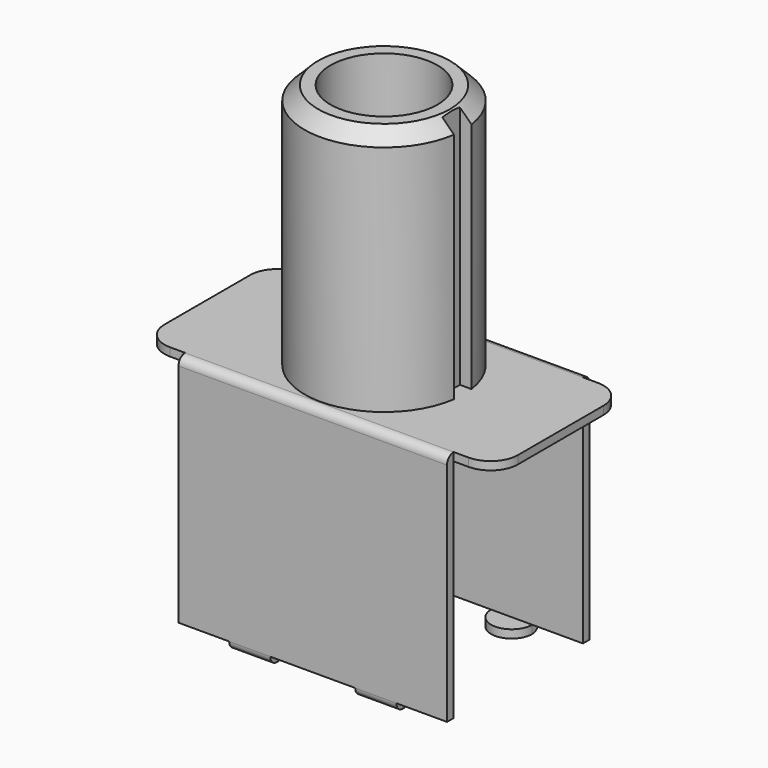
from build123d import *

# Parameters (mm, degrees)
SKETCH005_W     = 12.9
SKETCH005_H     = 5.9
PAD003_DEPTH    = 0.3
FILLET003_R     = 1
SKETCH006_W     = 9.8
SKETCH006_H     = 0.3
PAD004_DEPTH    = 8.55
PAD005_DEPTH    = 0.3
FILLET004_R     = 0.3
SKETCH008_R     = 2.9
PAD006_DEPTH    = 9
SKETCH009_R     = 1.95
POCKET002_DEPTH = 5
CHAMFER_SIZE    = 0.5
SKETCH010_W     = 0.5
SKETCH010_H     = 0.8
POCKET003_DEPTH = 9


with BuildPart() as part:
    # Sketch005 → Pad003 (new body)
    with BuildSketch(Plane.XY):
        Rectangle(SKETCH005_W, SKETCH005_H)
    extrude(amount=-PAD003_DEPTH)

    # Fillet003
    fillet003_edges = [part.edges().sort_by_distance(p)[0] for p in [
        (-6.45, -2.95, -0.15),
        (-6.45, 2.95, -0.15),
        (6.45, 2.95, -0.15),
        (6.45, -2.95, -0.15),
    ]]
    fillet(fillet003_edges, radius=FILLET003_R)

    # Sketch006 (on Face2 of Fillet003) → Pad004 (join)
    with BuildSketch(Plane.XY):
        with Locations((0, 3.1)):
            Rectangle(SKETCH006_W, SKETCH006_H)
        with Locations((0, -3.1)):
            Rectangle(SKETCH006_W, SKETCH006_H)
    extrude(amount=-PAD004_DEPTH)

    # Sketch007 (on Face21 of Pad004) → Pad005 (join)
    with BuildSketch(Plane(origin=(0, 0, -8.55), x_dir=(1, 0, 0), z_dir=(0, 0, -1))):
        with BuildLine():
            ThreePointArc((-3.05, 2.95), (-2.3, 2.2), (-1.55, 2.95))
            Line((-1.55, 2.95), (-1.55, 3.25))
            Line((-3.05, 3.25), (-1.55, 3.25))
            Line((-3.05, 3.25), (-3.05, 2.95))
        make_face()
        with BuildLine():
            ThreePointArc((1.55, 2.95), (2.3, 2.2), (3.05, 2.95))
            Line((3.05, 2.95), (3.05, 3.25))
            Line((1.55, 3.25), (3.05, 3.25))
            Line((1.55, 3.25), (1.55, 2.95))
        make_face()
        with BuildLine():
            ThreePointArc((-1.55, -2.95), (-2.3, -2.2), (-3.05, -2.95))
            Line((-3.05, -2.95), (-3.05, -3.25))
            Line((-3.05, -3.25), (-1.55, -3.25))
            Line((-1.55, -3.25), (-1.55, -2.95))
        make_face()
        with BuildLine():
            ThreePointArc((3.05, -2.95), (2.3, -2.2), (1.55, -2.95))
            Line((1.55, -2.95), (1.55, -3.25))
            Line((1.55, -3.25), (3.05, -3.25))
            Line((3.05, -3.25), (3.05, -2.95))
        make_face()
    extrude(amount=PAD005_DEPTH)

    # Fillet004
    fillet004_edges = [part.edges().sort_by_distance(p)[0] for p in [
        (-2.3, -3.25, -8.85),
        (2.3, -3.25, -8.85),
        (2.3, 3.25, -8.85),
        (-2.3, 3.25, -8.85),
        (0, 3.25, 0),
        (0, -3.25, 0),
    ]]
    fillet(fillet004_edges, radius=FILLET004_R)

    # Sketch008 (on Face1 of Fillet004) → Pad006 (join)
    with BuildSketch(Plane.XY):
        Circle(SKETCH008_R)
    extrude(amount=PAD006_DEPTH)

    # Sketch009 (on Face22 of Pad006) → Pocket002 (cut)
    with BuildSketch(Plane.XY.offset(9)):
        Circle(SKETCH009_R)
    extrude(amount=-POCKET002_DEPTH, mode=Mode.SUBTRACT)

    # Chamfer
    chamfer_edges = [part.edges().sort_by_distance(p)[0] for p in [
        (-2.9, 0, 9),
    ]]
    chamfer(chamfer_edges, length=CHAMFER_SIZE)

    # Sketch010 (on Face4 of Chamfer) → Pocket003 (cut)
    with BuildSketch(Plane.XY.offset(9)):
        with Locations((2.7, 0)):
            Rectangle(SKETCH010_W, SKETCH010_H)
    extrude(amount=-POCKET003_DEPTH, mode=Mode.SUBTRACT)


solid = part.part
